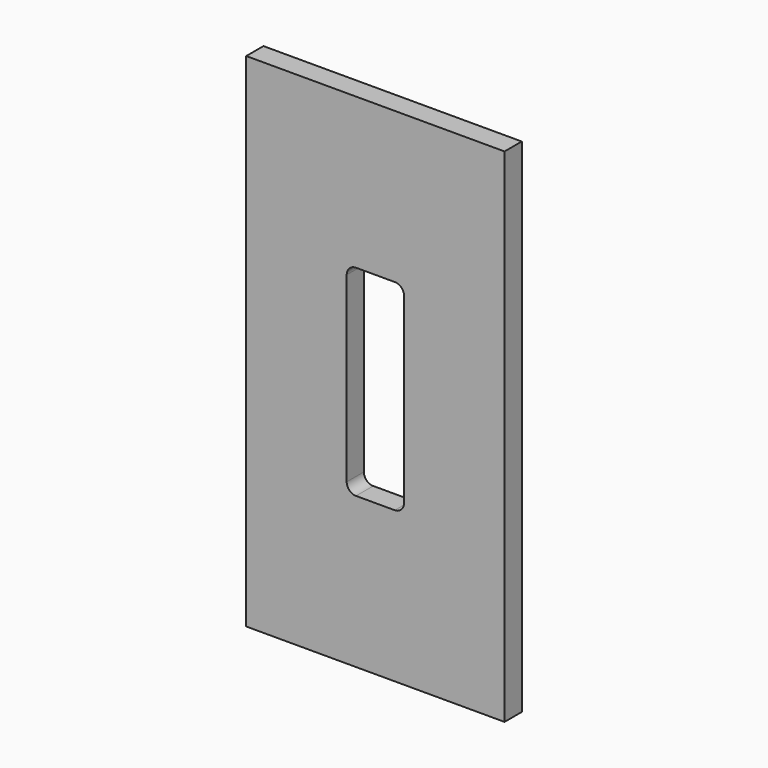
from build123d import *

# Parameters (mm, degrees)
F0_W     = 18
F0_H     = 35
F1_DEPTH = 1.5


with BuildPart() as f1:
    # F0 (on Front) → F1 (new body)
    with BuildSketch(Plane.XZ):
        Rectangle(F0_W, F0_H)
        with BuildLine():
            Line((-1.350613, 7), (1.350613, 7))
            ThreePointArc((1.350613, 7), (1.809799, 6.809799), (2, 6.350613))
            Line((2, 6.350613), (2, -6.350613))
            ThreePointArc((2, -6.350613), (1.809799, -6.809799), (1.350613, -7))
            Line((1.350613, -7), (-1.350613, -7))
            ThreePointArc((-1.350613, -7), (-1.809799, -6.809799), (-2, -6.350613))
            Line((-2, -6.350613), (-2, 6.350613))
            ThreePointArc((-2, 6.350613), (-1.809799, 6.809799), (-1.350613, 7))
        make_face(mode=Mode.SUBTRACT)
    extrude(amount=F1_DEPTH)


solid = f1.part
